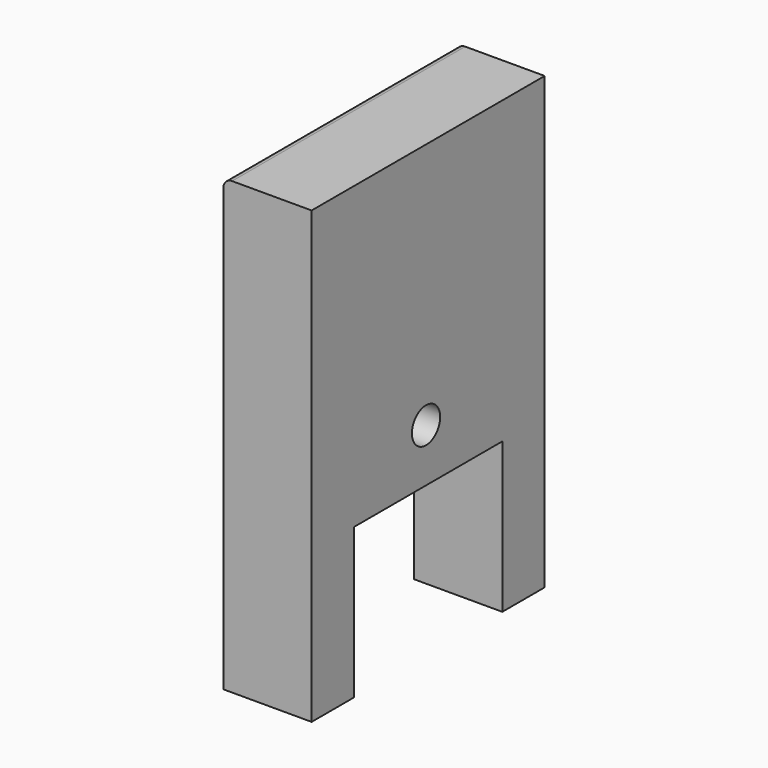
from build123d import *

# Parameters (mm, degrees)
F0_R     = 2
F1_DEPTH = 10
F2_R     = 1
F3_W     = 15
F3_H     = 7
F4_DEPTH = 6
F5_R     = 2.5
F6_R     = 2
F7_DEPTH = 25.4


with BuildPart() as f1:
    # F0 (on Right) → F1 (new body)
    with BuildSketch(Plane.YZ):
        Polygon((0, 51), (0, 0), (6, 0), (6, 17), (27, 17), (27, 0), (33, 0), (33, 51), align=None)
        with Locations((16.199438, 23)):
            Circle(F0_R, mode=Mode.SUBTRACT)
    extrude(amount=-F1_DEPTH)

    # F2
    f2_edges = [f1.edges().sort_by_distance(p)[0] for p in [
        (-10, 16.5, 51),
    ]]
    fillet(f2_edges, radius=F2_R)

    # F3 (on face) → F4 (join)
    with BuildSketch(Plane(origin=(-10, 0, 0), x_dir=(0, -1, 0), z_dir=(-1, 0, 0))):
        with Locations((-16.5, 32.5)):
            Rectangle(F3_W, F3_H)
    extrude(amount=F4_DEPTH)

    # F5
    f5_edges = [f1.edges().sort_by_distance(p)[0] for p in [
        (-16, 16.5, 36),
        (-16, 16.5, 29),
    ]]
    fillet(f5_edges, radius=F5_R)

    # F6 (on face) → F7 (cut)
    with BuildSketch(Plane(origin=(0, 24, 0), x_dir=(-1, 0, 0), z_dir=(0, 1, 0))):
        with Locations((12.673163, 32.804124)):
            Circle(F6_R)
    extrude(amount=-F7_DEPTH, mode=Mode.SUBTRACT)


solid = f1.part
